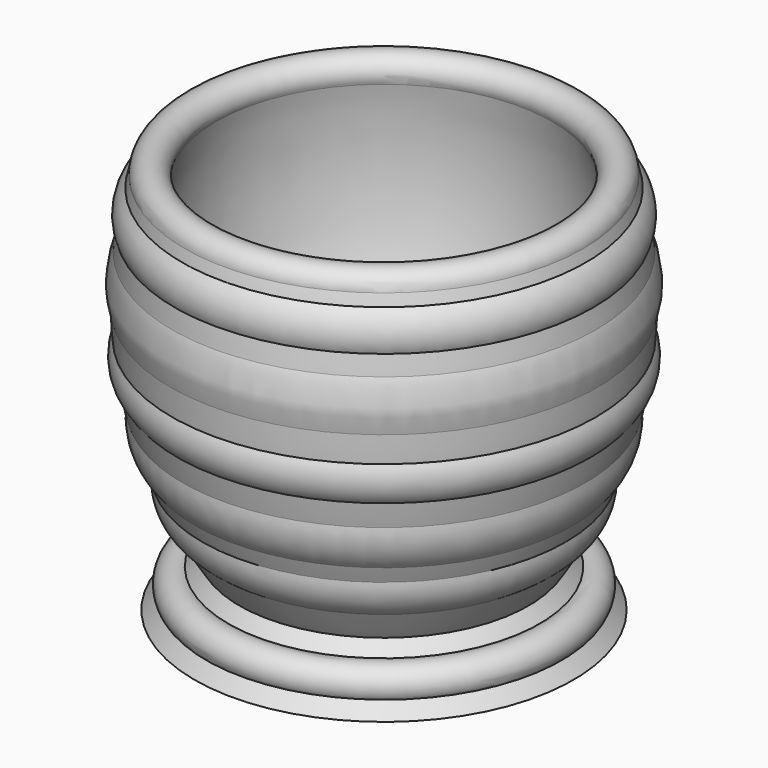
from build123d import *


with BuildPart() as f1:
    # F0 (on Front) → F1 (revolve)
    with BuildSketch(Plane.XZ):
        with BuildLine():
            Line((-10.02069, 8.346062), (-19.27543, 8.346062))
            ThreePointArc((-19.27543, 8.346062), (-35.243392, 32.683228), (-36.658574, 61.756767))
            ThreePointArc((-36.658574, 61.756767), (-38.428239, 65.621658), (-41.768707, 62.9929))
            ThreePointArc((-41.768707, 62.9929), (-42.012211, 62.085148), (-42.242788, 61.174027))
            ThreePointArc((-42.242788, 61.174027), (-43.831032, 58.297916), (-43.445336, 55.03513))
            ThreePointArc((-43.445336, 55.03513), (-43.656974, 53.467078), (-43.831032, 51.89441))
            ThreePointArc((-43.831032, 51.89441), (-44.71488, 47.807044), (-44.127112, 43.666721))
            ThreePointArc((-44.127112, 43.666721), (-44.032659, 41.46922), (-43.865173, 39.276075))
            ThreePointArc((-43.865173, 39.276075), (-44.398066, 36.0878), (-43.007767, 33.169557))
            ThreePointArc((-43.007767, 33.169557), (-42.597711, 31.163422), (-42.125738, 29.170946))
            ThreePointArc((-42.125738, 29.170946), (-41.789345, 25.457014), (-39.948988, 22.213632))
            ThreePointArc((-39.948988, 22.213632), (-39.431955, 20.877463), (-38.886095, 19.552809))
            ThreePointArc((-38.886095, 19.552809), (-38.223453, 15.989063), (-35.818975, 13.276524))
            ThreePointArc((-35.818975, 13.276524), (-34.357506, 10.778118), (-32.788102, 8.346062))
            Line((-32.788102, 8.346062), (-34.590495, 6.308449))
            ThreePointArc((-34.590495, 6.308449), (-37.963372, 5.631641), (-38.223453, 2.201375))
            Line((-38.223453, 2.201375), (-40.170703, 0))
            Line((-40.170703, 0), (-32.788102, 0))
            Line((-32.788102, 0), (-20.991217, 3.954867))
            Line((-20.991217, 3.954867), (-8.974506, 3.954867))
            Line((-8.974506, 3.954867), (-8.974506, 8.346062))
            Line((-8.974506, 8.346062), (-10.02069, 8.346062))
        make_face()
    revolve(axis=Axis((-8.974506, 0, 6.150465), (0, 0, 1)))


solid = f1.part
